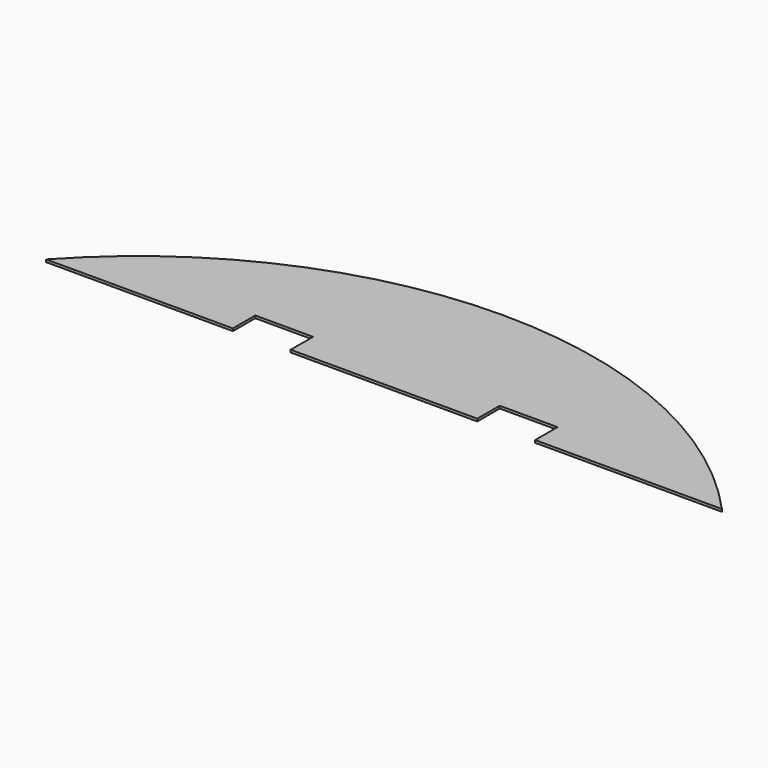
from build123d import *

# Parameters (mm, degrees)
F1_DEPTH = 4
F2_W     = 93
F2_H     = 45
F3_DEPTH = 25


with BuildPart() as f1:
    # F0 (on Top) → F1 (new body)
    with BuildSketch(Plane.XY):
        with BuildLine():
            Line((-543.323108, 495), (543.323108, 495))
            ThreePointArc((543.323108, 495), (0, 735), (-543.323108, 495))
        make_face()
    extrude(amount=F1_DEPTH)

    # F2 (on face) → F3 (cut)
    with BuildSketch(Plane.XY.offset(4)):
        with Locations((196.5, 517.5)):
            Rectangle(F2_W, F2_H)
        with Locations((-196.5, 517.5)):
            Rectangle(F2_W, F2_H)
    extrude(amount=-F3_DEPTH, mode=Mode.SUBTRACT)


solid = f1.part
